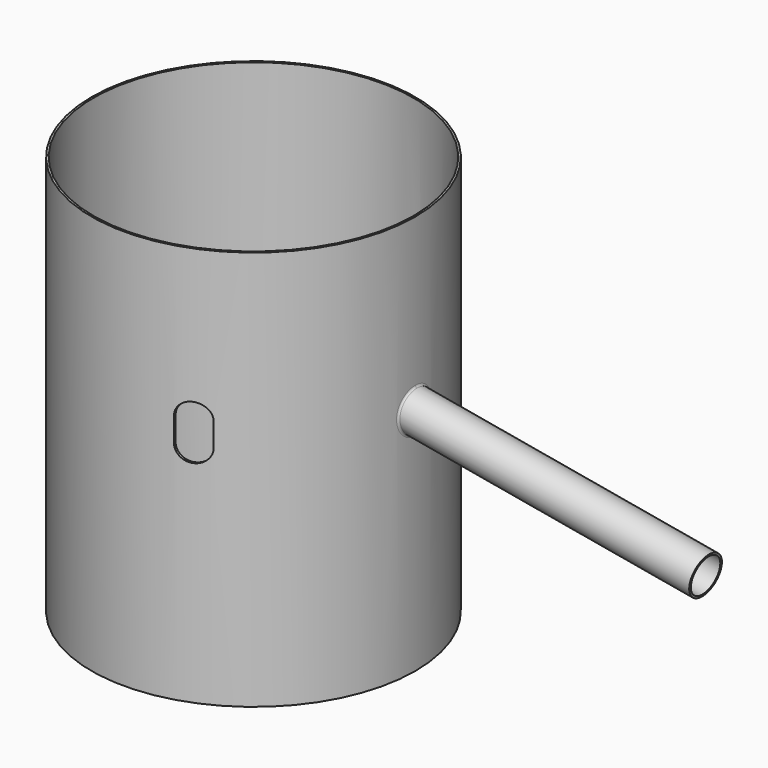
from build123d import *

# Parameters (mm, degrees)
F0_R     = 81
F0_R_2   = 80
F1_DEPTH = 200
F3_DEPTH = 150
F6_R     = 1


with BuildPart() as f1:
    # F0 (on Top) → F1 (new body)
    with BuildSketch(Plane.XY):
        Circle(F0_R)
        Circle(F0_R_2, mode=Mode.SUBTRACT)
    extrude(amount=F1_DEPTH)

    # F2 (on Front) → F3 (cut, symmetric)
    with BuildSketch(Plane.XZ):
        with BuildLine():
            Line((37.5, 113), (37.5, 125))
            ThreePointArc((37.5, 125), (30, 132.5), (22.5, 125))
            Line((22.5, 125), (22.5, 113))
            ThreePointArc((22.5, 113), (30, 105.5), (37.5, 113))
        make_face()
    extrude(amount=F3_DEPTH, both=True, mode=Mode.SUBTRACT)

    # F4 (on Front) → F5 (revolve)
    with BuildSketch(Plane.XZ):
        Polygon((227.8234839022, 99.0889975246), (80.1023209503, 125.1362241746), (79.9286727727, 124.1514164216), (227.6498357245, 98.1041897716), align=None)
    revolve(axis=Axis((158.0200701243, 0, 101.2429566003), (0.984807753, 0, -0.1736481777)))

    # F6
    f6_edges = [f1.edges().sort_by_distance(p)[0] for p in [
        (80.380378, -9.99974, 114.85969),
        (80.380378, 9.99974, 114.85969),
    ]]
    fillet(f6_edges, radius=F6_R)


solid = f1.part
